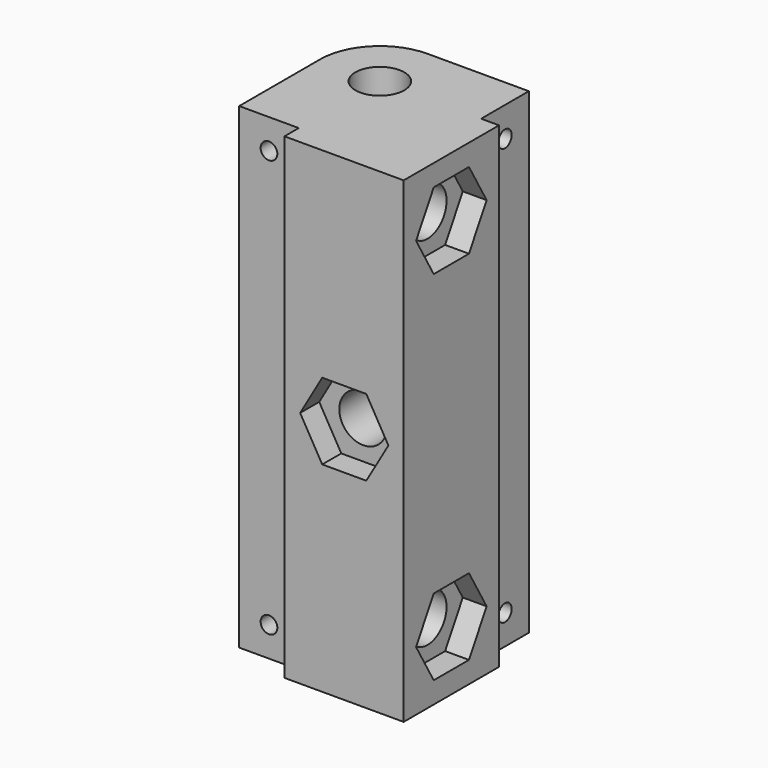
from build123d import *

# Parameters (mm, degrees)
SKETCH004_R  = 1.4
PAD002_DEPTH = 6
SKETCH007_R  = 4
PAD003_DEPTH = 31
SKETCH001_R  = 4
PAD004_DEPTH = 31
SKETCH006_R  = 1.4
PAD005_DEPTH = 5
PAD006_DEPTH = 4
SKETCH003_W  = 10
SKETCH003_H  = 80
PAD007_DEPTH = 3
SKETCH005_W  = 10
SKETCH005_H  = 80
PAD008_DEPTH = 3
PAD001_DEPTH = 4
SKETCH_R     = 4.1
PAD_DEPTH    = 80


with BuildPart() as obj1:
    # Sketch004 → Pad002 (new body)
    with BuildSketch(Plane.YZ.offset(10.029501)):
        with Locations((11.683203, 75)):
            Circle(SKETCH004_R)
        with Locations((11.683203, 5)):
            Circle(SKETCH004_R)
    extrude(amount=-PAD002_DEPTH)


with BuildPart() as rodhole01:
    # Sketch007 → Pad003 (new body)
    with BuildSketch(Plane.XZ.offset(13.316829)):
        with Locations((3.029501, 40)):
            Circle(SKETCH007_R)
    extrude(amount=-PAD003_DEPTH)


with BuildPart() as rodhole02:
    # Sketch001 → Pad004 (new body)
    with BuildSketch(Plane.YZ.offset(13.029501)):
        with Locations((-3.316797, 70)):
            Circle(SKETCH001_R)
        with Locations((-3.316797, 10)):
            Circle(SKETCH001_R)
    extrude(amount=-PAD004_DEPTH)


with BuildPart() as obj2:
    # Sketch006 → Pad005 (new body)
    with BuildSketch(Plane.XZ.offset(10.316829)):
        with Locations((-11.970531, 75)):
            Circle(SKETCH006_R)
        with Locations((-11.970531, 5)):
            Circle(SKETCH006_R)
    extrude(amount=-PAD005_DEPTH)


with BuildPart() as obj3:
    # Sketch002 → Pad006 (new body)
    with BuildSketch(Plane.YZ.offset(13.029501)):
        Polygon((4.083203, 70), (0.383203, 76.408588), (-7.016797, 76.408588), (-10.716797, 70), (-7.016797, 63.591412), (0.383203, 63.591412), align=None)
        Polygon((0.383203, 3.591412), (4.083203, 10), (0.383203, 16.408588), (-7.016797, 16.408588), (-10.716797, 10), (-7.016797, 3.591412), align=None)
    extrude(amount=-PAD006_DEPTH)


with BuildPart() as obj4:
    # Sketch003 → Pad007 (new body)
    with BuildSketch(Plane.YZ.offset(13.029501)):
        with Locations((11.683203, 40)):
            Rectangle(SKETCH003_W, SKETCH003_H)
    extrude(amount=-PAD007_DEPTH)


with BuildPart() as obj5:
    # Sketch005 → Pad008 (new body)
    with BuildSketch(Plane.XZ.offset(13.316829)):
        with Locations((-11.970531, 40)):
            Rectangle(SKETCH005_W, SKETCH005_H)
    extrude(amount=-PAD008_DEPTH)


with BuildPart() as cutblock:
    # Sketch008 → Pad001 (new body)
    with BuildSketch(Plane.XZ.offset(13.316829)):
        Polygon((6.763311, 33.591412), (10.463311, 40), (6.763311, 46.408588), (-0.636689, 46.408588), (-4.336689, 40), (-0.636689, 33.591412), align=None)
    extrude(amount=-PAD001_DEPTH)

    # Fusion: union obj1, RodHole01, RodHole02, obj2, obj3, obj4, obj5
    add(obj1.part)
    add(rodhole01.part)
    add(rodhole02.part)
    add(obj2.part)
    add(obj3.part)
    add(obj4.part)
    add(obj5.part)


with BuildPart() as final:
    # Sketch → Pad (new body)
    with BuildSketch(Plane.XY):
        with BuildLine():
            Line((-16.970531, 6.683171), (-16.970531, -13.316829))
            Line((-16.970531, -13.316829), (13.029501, -13.316829))
            Line((13.029501, -13.316829), (13.029501, 16.683203))
            Line((13.029501, 16.683203), (-6.970499, 16.683203))
            ThreePointArc((-6.970499, 16.683203), (-14.041599, 13.754271), (-16.970531, 6.683171))
        make_face()
        with Locations((-6.970531, 6.683203)):
            Circle(SKETCH_R, mode=Mode.SUBTRACT)
    extrude(amount=PAD_DEPTH)

    # Cut: cut CutBlock
    add(cutblock.part, mode=Mode.SUBTRACT)


solid = final.part
